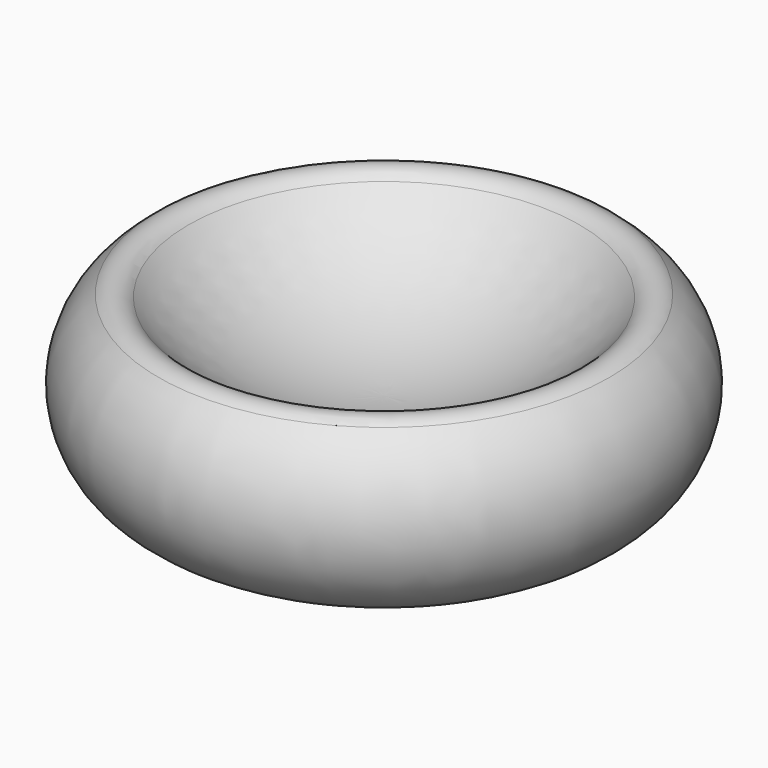
from build123d import *


with BuildPart() as f1:
    # F0 (on Front) → F1 (revolve)
    with BuildSketch(Plane.XZ):
        with BuildLine():
            ThreePointArc((14.125773, 12.618567), (7.727101, 7.987522), (0, 6.35))
            Line((0, 6.35), (0, 4.7625))
            ThreePointArc((0, 4.7625), (7.632543, 6.22578), (14.182731, 10.408117))
            ThreePointArc((14.182731, 10.408117), (15.476411, 10.829401), (16.621204, 10.094189))
            ThreePointArc((16.621204, 10.094189), (15.748161, 3.13466), (8.757829, 2.558027))
            ThreePointArc((8.757829, 2.558027), (8.087388, 2.818826), (7.370676, 2.756937))
            ThreePointArc((7.370676, 2.756937), (3.731435, 1.881676), (0, 1.5875))
            Line((0, 1.5875), (0, 0))
            ThreePointArc((0, 0), (3.634519, 0.261379), (7.194236, 1.040136))
            ThreePointArc((7.194236, 1.040136), (7.819081, 1.095447), (8.41657, 0.904403))
            ThreePointArc((8.41657, 0.904403), (17.866932, 3.212218), (16.274334, 12.809039))
            ThreePointArc((16.274334, 12.809039), (15.162736, 13.134745), (14.125773, 12.618567))
        make_face()
    revolve(axis=Axis((0, 0, 5.55625), (0, 0, -1)))


solid = f1.part
